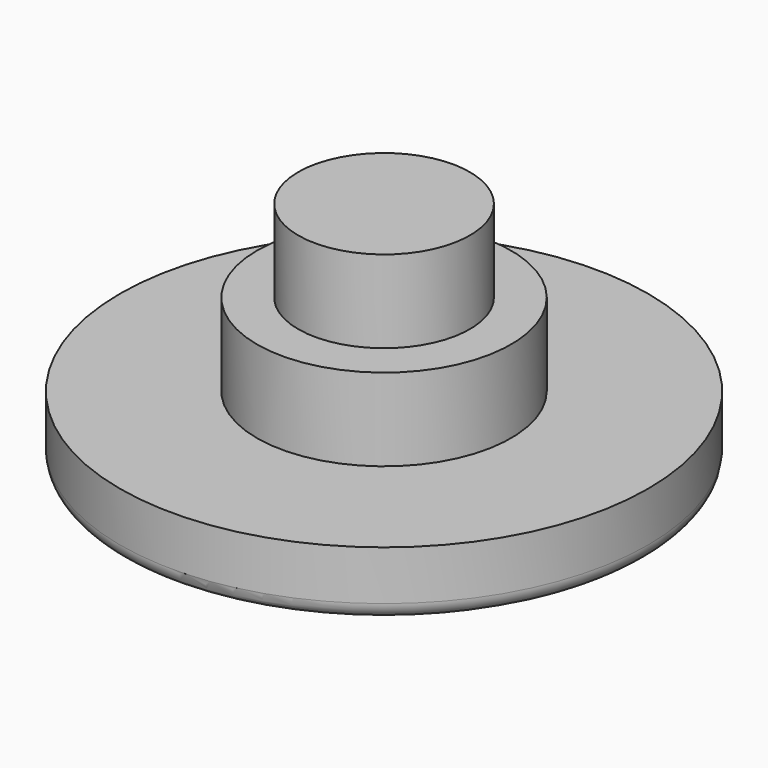
from build123d import *


with BuildPart() as f1:
    # F0 (on Front) → F1 (revolve)
    with BuildSketch(Plane.XZ):
        with BuildLine():
            Line((0, -2), (0, 5))
            Line((0, 5), (-2.6, 5))
            Line((-2.6, 5), (-2.6, 2.5))
            Line((-2.6, 2.5), (-3.85, 2.5))
            Line((-3.85, 2.5), (-3.85, 0))
            Line((-3.85, 0), (-8, 0))
            Line((-8, 0), (-8, -1.5))
            ThreePointArc((-8, -1.5), (-7.853553, -1.853553), (-7.5, -2))
            Line((-7.5, -2), (0, -2))
        make_face()
    revolve(axis=Axis((0, 0, 1.5), (0, 0, 1)))


solid = f1.part
